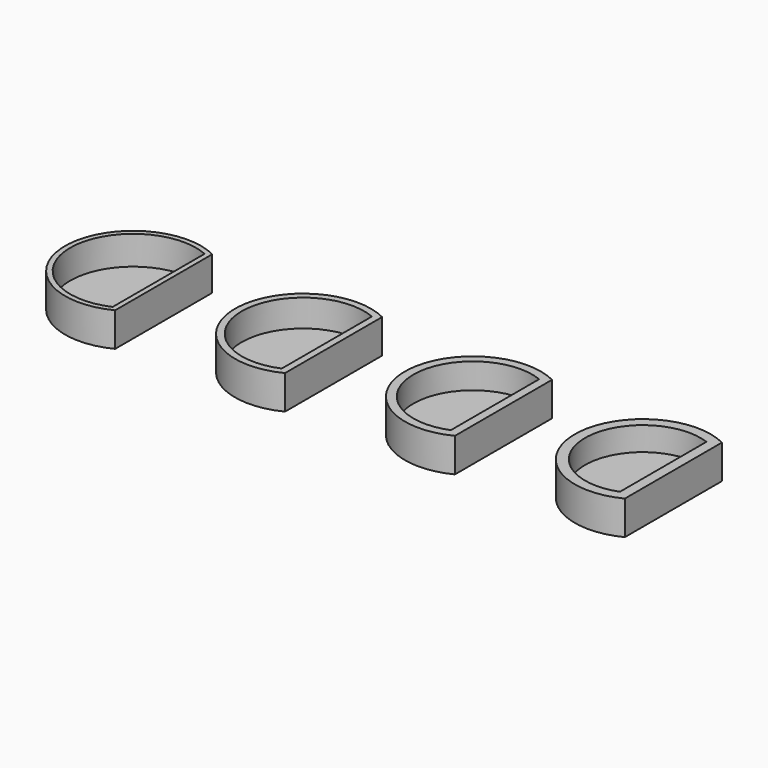
from build123d import *

# Parameters (mm, degrees)
F1_DEPTH = 5
F2_T     = -0.75
F3_T     = -1
F4_T     = -1.25
F5_T     = -1.5


with BuildPart() as f1:
    # F0 (on Top) → F1 (new body)
    with BuildSketch(Plane.XY):
        with BuildLine():
            Line((-49.8312081576, 32.9375704042), (-49.8312081576, 50.7981415037))
            ThreePointArc((-49.8312081576, 50.7981415037), (-64.3312081576, 41.8678559539), (-49.8312081576, 32.9375704042))
        make_face()
    extrude(amount=F1_DEPTH)

    # F2
    f2_openings = [f1.faces().sort_by_distance(p)[0] for p in [
        (-56.277542, 41.867856, 5),
    ]]
    offset(amount=F2_T, openings=f2_openings)


with BuildPart() as f1b:
    # F0 (on Top) → F1, piece 2 (new body)
    with BuildSketch(Plane.XY):
        with BuildLine():
            Line((-24.8312081576, 32.9375704042), (-24.8312081576, 50.7981415037))
            ThreePointArc((-24.8312081576, 50.7981415037), (-39.3312081576, 41.8678559539), (-24.8312081576, 32.9375704042))
        make_face()
    extrude(amount=F1_DEPTH)

    # F3
    f3_openings = [f1b.faces().sort_by_distance(p)[0] for p in [
        (-31.277542, 41.867856, 5),
    ]]
    offset(amount=F3_T, openings=f3_openings)


with BuildPart() as f1c:
    # F0 (on Top) → F1, piece 3 (new body)
    with BuildSketch(Plane.XY):
        with BuildLine():
            Line((0.1687918424, 32.9375704042), (0.1687918424, 50.7981415037))
            ThreePointArc((0.1687918424, 50.7981415037), (-14.3312081576, 41.8678559539), (0.1687918424, 32.9375704042))
        make_face()
    extrude(amount=F1_DEPTH)

    # F4
    f4_openings = [f1c.faces().sort_by_distance(p)[0] for p in [
        (-6.277542, 41.867856, 5),
    ]]
    offset(amount=F4_T, openings=f4_openings)


with BuildPart() as f1d:
    # F0 (on Top) → F1, piece 4 (new body)
    with BuildSketch(Plane.XY):
        with BuildLine():
            Line((25.1687918424, 32.9375704042), (25.1687918424, 50.7981415037))
            ThreePointArc((25.1687918424, 50.7981415037), (10.6687918424, 41.8678559539), (25.1687918424, 32.9375704042))
        make_face()
    extrude(amount=F1_DEPTH)

    # F5
    f5_openings = [f1d.faces().sort_by_distance(p)[0] for p in [
        (18.722458, 41.867856, 5),
    ]]
    offset(amount=F5_T, openings=f5_openings)


solid = Compound([f1.part, f1b.part, f1c.part, f1d.part])
